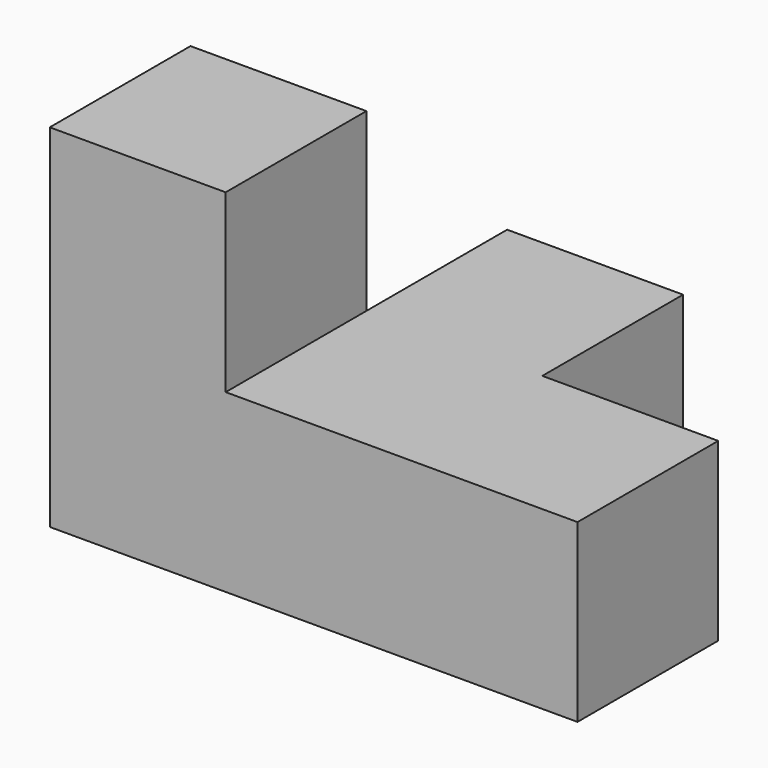
from build123d import *

# Parameters (mm, degrees)
F0_W     = 25.4
F0_H     = 25.4
F1_DEPTH = 25.4
F2_W     = 25.4
F2_H     = 25.4
F3_DEPTH = 25.4


with BuildPart() as f1:
    # F0 (on Front) → F1 (new body)
    with BuildSketch(Plane.XZ):
        with Locations((-38.1, 12.7)):
            Rectangle(F0_W, F0_H)
        with Locations((-12.7, 12.7)):
            Rectangle(F0_W, F0_H)
        with Locations((12.7, 12.7)):
            Rectangle(F0_W, F0_H)
        with Locations((-38.1, 38.1)):
            Rectangle(F0_W, F0_H)
    extrude(amount=F1_DEPTH)

    # F2 (on Top) → F3 (join)
    with BuildSketch(Plane.XY):
        with Locations((-12.7, 12.7)):
            Rectangle(F2_W, F2_H)
    extrude(amount=F3_DEPTH)


solid = f1.part
